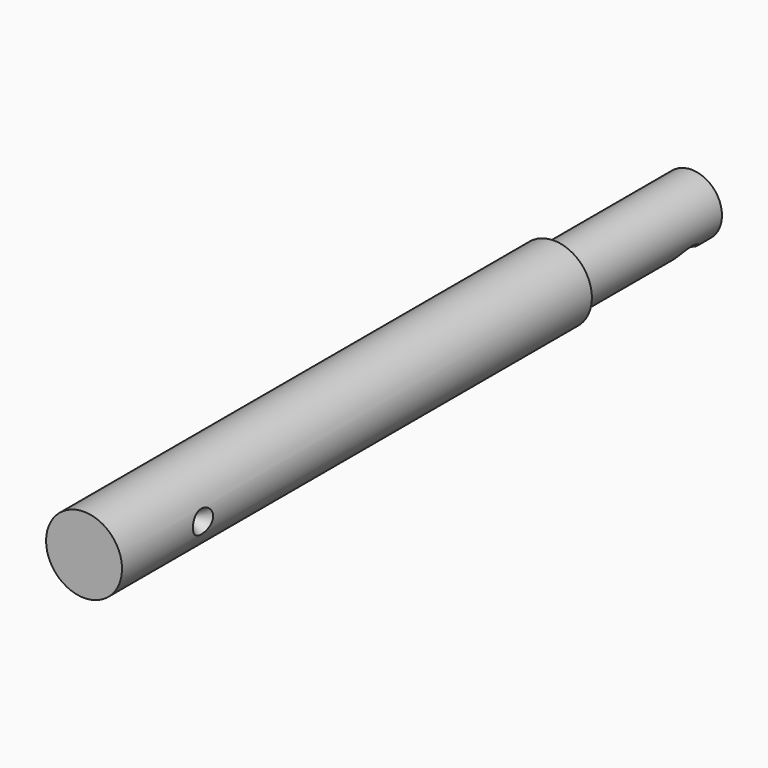
from build123d import *

# Parameters (mm, degrees)
F4_R     = 4
F5_DEPTH = 12.5


with BuildPart() as f1:
    # F0 (on Top) → F1 (revolve)
    with BuildSketch(Plane.XY):
        Polygon((-7.5, 0), (0, 0), (0, 150), (-6, 150), (-6, 116), (-7.5, 116), align=None)
    revolve(axis=Axis((0, 75, 0), (0, -1, 0)))

    # F2 (on Top) → F3 (revolve, cut)
    with BuildSketch(Plane.XY):
        Polygon((4.365895, 20), (9.365895, 16), (9.365895, 20), align=None)
    revolve(axis=Axis((12.081508, 20, 0), (1, 0, 0)), mode=Mode.SUBTRACT)

    # F4 (on Right) → F5 (cut, symmetric)
    with BuildSketch(Plane.YZ):
        with Locations((143.5, -7)):
            Circle(F4_R)
    extrude(amount=F5_DEPTH, both=True, mode=Mode.SUBTRACT)


solid = f1.part
